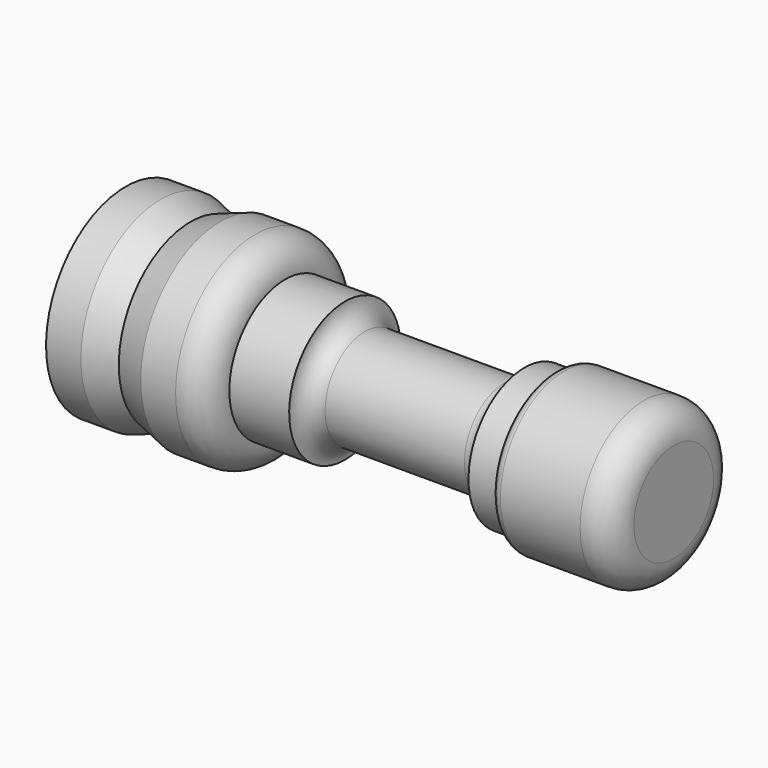
from build123d import *


with BuildPart() as f1:
    # F0 (on Front) → F1 (revolve)
    with BuildSketch(Plane.XZ):
        with BuildLine():
            Line((55, 0), (0, 0))
            Line((0, 0), (0, -10))
            Line((0, -10), (3.5, -10))
            Line((3.5, -10), (6.5, -9))
            Line((6.5, -9), (9.5, -10))
            Line((9.5, -10), (13, -10))
            ThreePointArc((13, -10), (15.12132, -9.12132), (16, -7))
            Line((16, -7), (22, -7))
            ThreePointArc((22, -7), (22.585786, -5.585786), (24, -5))
            Line((24, -5), (38, -5))
            ThreePointArc((38, -5), (39.414214, -5.585786), (40, -7))
            Line((40, -7), (43, -7))
            ThreePointArc((43, -7), (43.292893, -7.707107), (44, -8))
            Line((44, -8), (52, -8))
            ThreePointArc((52, -8), (54.12132, -7.12132), (55, -5))
            Line((55, -5), (55, 0))
        make_face()
    revolve(axis=Axis((24.909981, 0, 0), (-1, 0, 0)))


solid = f1.part
